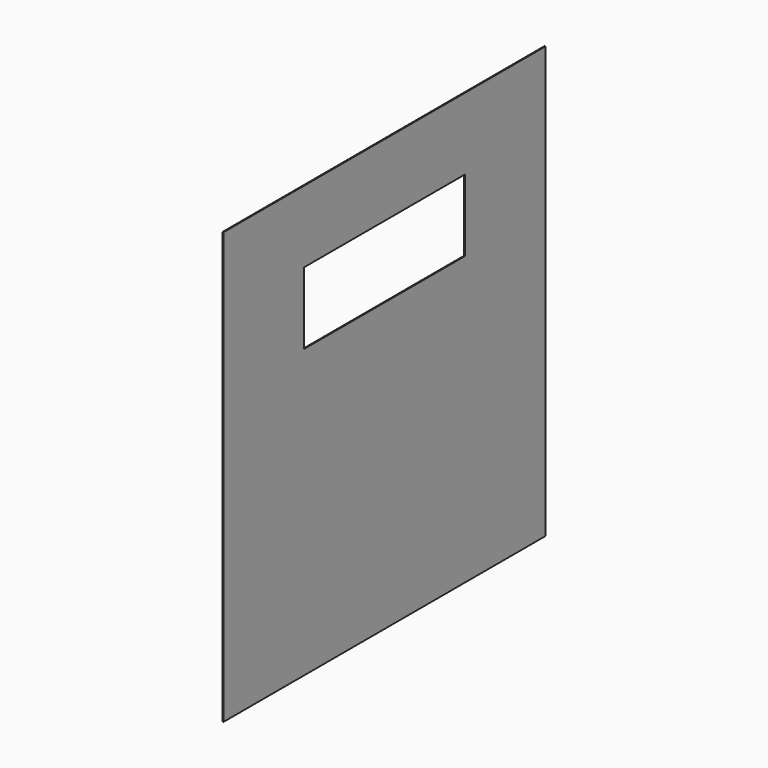
from build123d import *

# Parameters (mm, degrees)
F0_W     = 1422.4
F0_H     = 1524
F1_DEPTH = 3.175
F2_W     = 711.2
F2_H     = 254
F3_DEPTH = 3.176


with BuildPart() as f1:
    # F0 (on Right) → F1 (new body)
    with BuildSketch(Plane.YZ):
        Rectangle(F0_W, F0_H)
    extrude(amount=F1_DEPTH)

    # F2 (on face) → F3 (cut, through all)
    with BuildSketch(Plane.YZ.offset(3.175)):
        with Locations((0, 381)):
            Rectangle(F2_W, F2_H)
    extrude(amount=-F3_DEPTH, mode=Mode.SUBTRACT)


solid = f1.part
